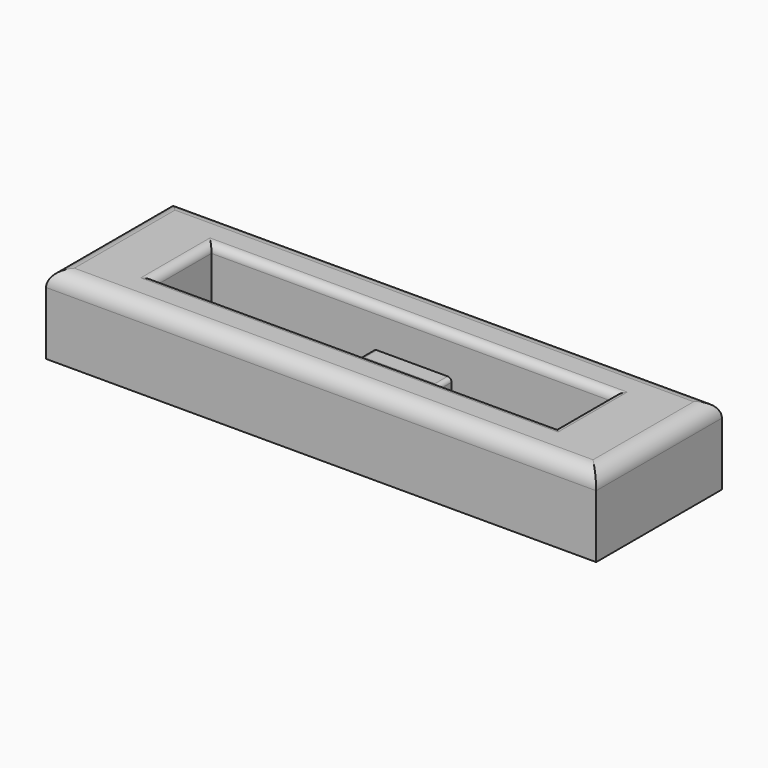
from build123d import *

# Parameters (mm, degrees)
F0_W     = 35
F0_H     = 10
F2_DEPTH = 5
F0_W_2   = 5
F0_H_2   = 1.25
F3_DEPTH = 2.5
F4_R     = 0.25
F5_R     = 1
F6_R     = 0.5


with BuildPart() as f2:
    # F0 (on Top) → F2 (new body)
    with BuildSketch(Plane.XY):
        Rectangle(F0_W, F0_H)
        Polygon((-12.776, -2.25), (-12.776, 2.25), (-2.5, 2.25), (2.5, 2.25), (12.776, 2.25), (12.776, -2.25), (2.5, -2.25), (-2.5, -2.25), align=None, mode=Mode.SUBTRACT)
    extrude(amount=F2_DEPTH)

    # F0 (on Top) → F3 (join)
    with BuildSketch(Plane.XY):
        with Locations((0, 1.625)):
            Rectangle(F0_W_2, F0_H_2)
        with Locations((0, -1.625)):
            Rectangle(F0_W_2, F0_H_2)
    extrude(amount=F3_DEPTH)

    # F4
    f4_edges = [f2.edges().sort_by_distance(p)[0] for p in [
        (2.5, 1.625, 2.5),
        (0, 1, 2.5),
        (-2.5, 1.625, 2.5),
        (2.5, -1.625, 2.5),
        (-2.5, -1.625, 2.5),
        (0, -1, 2.5),
    ]]
    fillet(f4_edges, radius=F4_R)

    # F5
    f5_edges = [f2.edges().sort_by_distance(p)[0] for p in [
        (0, -5, 5),
        (0, 5, 5),
        (17.5, 0, 5),
        (-17.5, 0, 5),
    ]]
    fillet(f5_edges, radius=F5_R)

    # F6
    f6_edges = [f2.edges().sort_by_distance(p)[0] for p in [
        (0, 2.25, 5),
        (12.776, 0, 5),
        (0, -2.25, 5),
        (-12.776, 0, 5),
    ]]
    fillet(f6_edges, radius=F6_R)


solid = f2.part
